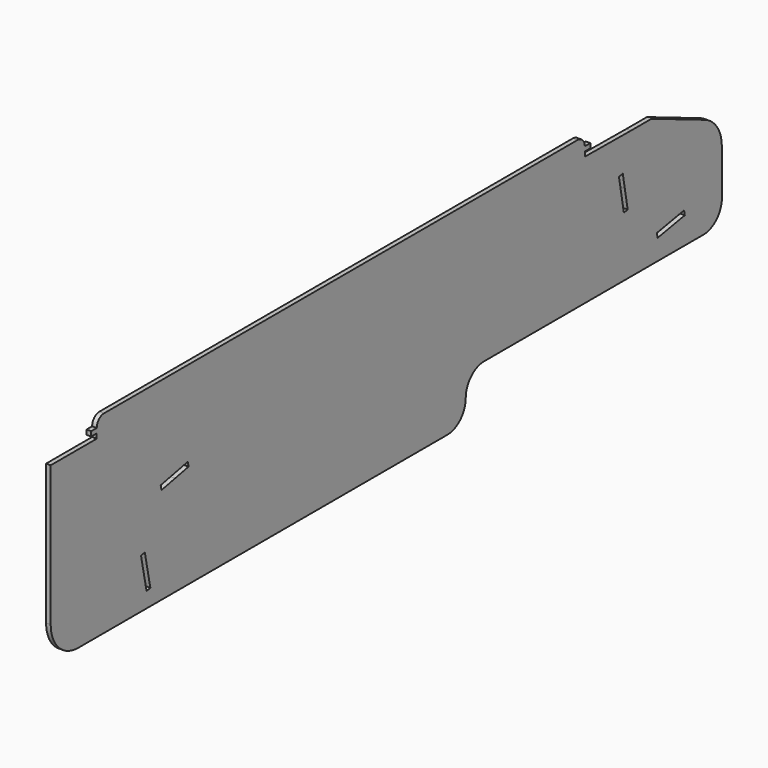
from build123d import *

# Parameters (mm, degrees)
F0_W     = 3
F0_H     = 2
F1_DEPTH = 2


with BuildPart() as f1:
    # F0 (on Right) → F1 (new body)
    with BuildSketch(Plane.YZ):
        with BuildLine():
            Line((90.8936798627, 36.3217199568), (-174.1063201373, 36.3217199568))
            Line((-174.1063201373, 36.3217199568), (-174.1063201373, 34.2722421593))
            Line((-174.1063201373, 34.2722421593), (-174.1063201373, 32.2227643619))
            Line((-174.1063201373, 32.2227643619), (-199.1063201373, 32.2217199568))
            Line((-199.1063201373, 32.2217199568), (-199.1063201373, -28.6782800432))
            ThreePointArc((-199.1063201373, -28.6782800432), (-194.7129218551, -39.284881761), (-184.1063201373, -43.6782800432))
            Line((-184.1063201373, -43.6782800432), (16.251750713, -43.6782800432))
            ThreePointArc((16.251750713, -43.6782800432), (23.3228185249, -40.749347855), (26.251750713, -33.6782800432))
            ThreePointArc((26.251750713, -33.6782800432), (29.1806829012, -26.6072122313), (36.251750713, -23.6782800432))
            Line((36.251750713, -23.6782800432), (155.351750713, -23.6782800432))
            ThreePointArc((155.351750713, -23.6782800432), (162.4228185249, -20.749347855), (165.351750713, -13.6782800432))
            Line((165.351750713, -13.6782800432), (165.351750713, -1.8447812752))
            Line((165.351750713, -1.8447812752), (165.2960070677, 6.2018883531))
            ThreePointArc((165.2960070677, 6.2018883531), (162.761697767, 14.4415697733), (156.110224139, 19.9254527145))
            Line((156.110224139, 19.9254527145), (129.822104553, 30.9784737498))
            Line((129.822104553, 30.9784737498), (127.1030476624, 32.1217199568))
            Line((127.1030476624, 32.1217199568), (115.8936798627, 32.1217199568))
            Line((115.8936798627, 32.1217199568), (90.8936798627, 32.3217199568))
            Line((90.8936798627, 32.3217199568), (90.8936798627, 34.3217199568))
            Line((90.8936798627, 34.3217199568), (90.8936798627, 36.3217199568))
        make_face()
        Polygon((-147.0423409187, -37.0691160319), (-150.0623409187, -22.2741979854), (-148.0047695348, -21.8541979854), (-144.9847695348, -36.6491160319), align=None, mode=Mode.SUBTRACT)
        Polygon((-124.2484640053, 1.2641485729), (-131.5969332337, -0.2358514271), (-138.945402462, -1.7358514271), (-139.365402462, 0.3217199568), (-132.0169332337, 1.8217199568), (-124.6684640053, 3.3217199568), align=None, mode=Mode.SUBTRACT)
        Polygon((112.6358084867, 11.2438009667), (132.6293582157, 15.3249672153), (137.4229859734, -11.4047453242), (144.8052126649, -10.080838577), (145.1759065542, -12.1478620506), (137.7936798627, -13.4717687978), (130.4114531712, -14.795675545), (125.4899687102, -15.6782800432), (115.6469997882, -17.4434890395), (112.116320041, 2.2439083723), (110.5776489558, 10.8236809117), (109.4508544566, 17.1067914445), (111.5178779302, 17.4774853337), align=None, mode=Mode.SUBTRACT)
        Polygon((137.4229859734, -11.4047453242), (132.6293582157, 15.3249672153), (112.6358084867, 11.2438009667), (114.1788294003, 2.6397733811), (112.116320041, 2.2439083723), (115.6469997882, -17.4434890395), (125.4899687102, -15.6782800432), (130.4114531712, -14.795675545), (130.0407592819, -12.7286520714), align=None)
        with BuildLine():
            ThreePointArc((-170.1063201373, 40.3217199568), (-172.9347472621, 39.1501470816), (-174.1063201373, 36.3217199568))
            Line((-174.1063201373, 36.3217199568), (90.8936798627, 36.3217199568))
            ThreePointArc((90.8936798627, 36.3217199568), (89.7221069874, 39.1501470816), (86.8936798627, 40.3217199568))
            Line((86.8936798627, 40.3217199568), (-170.1063201373, 40.3217199568))
        make_face()
        with Locations((92.3936798627, 35.3217199568)):
            Rectangle(F0_W, F0_H)
        Polygon((-174.1063201373, 36.3217199568), (-177.1063201373, 36.3217199568), (-177.1060525256, 34.2718505424), (-174.1063201373, 34.2722421593), align=None)
    extrude(amount=F1_DEPTH)


solid = f1.part
